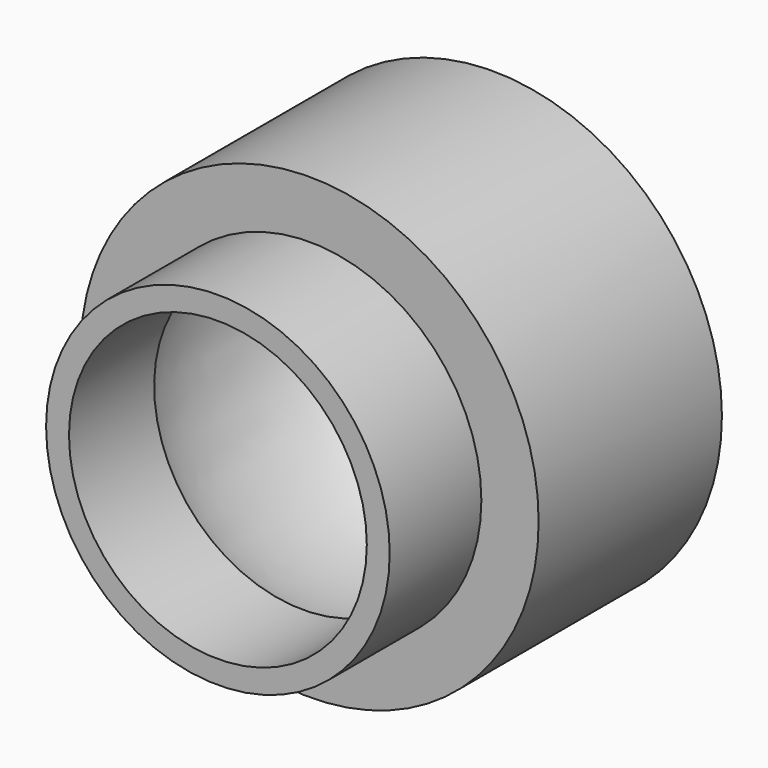
from build123d import *

# Parameters (mm, degrees)
F0_R     = 25.4
F0_R_2   = 19.05
F1_DEPTH = 12.7
F0_R_3   = 16.51
F2_DEPTH = 25.4


with BuildPart() as f1:
    # F0 (on Front) → F1 (new body, symmetric)
    with BuildSketch(Plane.XZ):
        Circle(F0_R)
        Circle(F0_R_2, mode=Mode.SUBTRACT)
    extrude(amount=F1_DEPTH, both=True)

    # F0 (on Front) → F2 (join)
    with BuildSketch(Plane.XZ):
        Circle(F0_R_2)
        Circle(F0_R_3, mode=Mode.SUBTRACT)
    extrude(amount=F2_DEPTH)

    # F3 (on Right) → F4 (revolve, cut)
    with BuildSketch(Plane.YZ):
        with BuildLine():
            add(Edge.make_bspline(
                [(13.654734008, 16.9758312404), (13.654734008, 25.7000523518), (-6.827367004, 21.3379417961), (-27.309468016, 16.9758312404), (-6.827367004, 12.6137206847), (13.654734008, 8.251610129), (13.654734008, 16.9758312404)],
                knots=[0, 0, 0, 2.0943951024, 2.0943951024, 4.1887902048, 4.1887902048, 6.2831853072, 6.2831853072, 6.2831853072], degree=2, weights=[1, 0.5, 1, 0.5, 1, 0.5, 1]))
        make_face()
    revolve(axis=Axis((0, 12.7, 0), (0, -1, 0)), mode=Mode.SUBTRACT)


solid = f1.part
